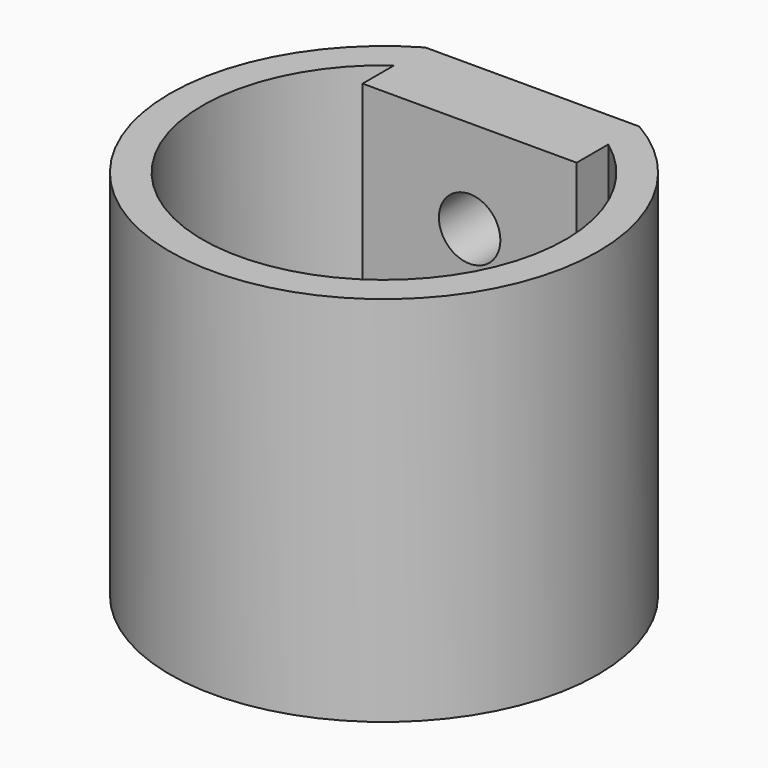
from build123d import *

# Parameters (mm, degrees)
F1_DEPTH = 40
F2_R     = 3.3
F3_DEPTH = 8.418584


with BuildPart() as f1:
    # F0 (on Top) → F1 (new body)
    with BuildSketch(Plane.XY):
        with BuildLine():
            Line((11.5, 19.918584), (-11.5, 19.918584))
            ThreePointArc((-11.5, 19.918584), (0, -23), (11.5, 19.918584))
        make_face()
        with BuildLine():
            ThreePointArc((11.5, 15.748016), (0, -19.5), (-11.5, 15.748016))
            Line((-11.5, 15.748016), (-11.5, 11.5))
            Line((-11.5, 11.5), (11.5, 11.5))
            Line((11.5, 11.5), (11.5, 15.748016))
        make_face(mode=Mode.SUBTRACT)
    extrude(amount=F1_DEPTH)

    # F2 (on face) → F3 (cut, through all)
    with BuildSketch(Plane(origin=(0, 19.918584, 0), x_dir=(-1, 0, 0), z_dir=(0, 1, 0))):
        with Locations((0, 30)):
            Circle(F2_R)
        with Locations((0, 10)):
            Circle(F2_R)
    extrude(amount=-F3_DEPTH, mode=Mode.SUBTRACT)


solid = f1.part
